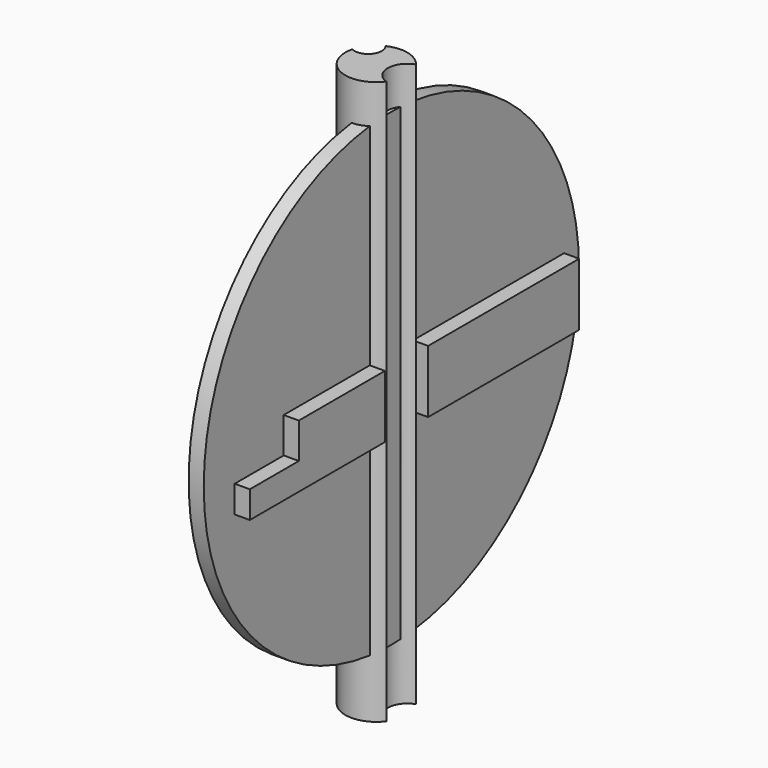
from build123d import *

# Parameters (mm, degrees)
F1_DEPTH  = 34.29
F2_DEPTH  = 36.068
F3_DEPTH  = 89.916
F4_DEPTH  = 297.18
F5_DEPTH  = 490.22
F7_DEPTH  = 25.4
F8_DEPTH  = 25.4
F9_R      = 267.1036956646
F10_DEPTH = 25.4
F11_R     = 394.725466742
F12_DEPTH = 25.4


with BuildPart() as f1:
    # F0 (on Top) → F1 (new body)
    with BuildSketch(Plane.XY):
        with BuildLine():
            ThreePointArc((-22.0894133395, 47.1940784517), (-22.5272575475, 18.5898560115), (-50.5285451852, 12.7314313437))
            ThreePointArc((-50.5285451852, 12.7314313437), (-22.4090369372, -47.0431534459), (41.7246328393, -31.2134303949))
            ThreePointArc((41.7246328393, -31.2134303949), (19.2126905803, 0), (41.7246328393, 31.2134303949))
            ThreePointArc((41.7246328393, 31.2134303949), (12.6582281257, 50.5469334709), (-22.0894133395, 47.1940784517))
        make_face()
    extrude(amount=F1_DEPTH)

    # F2 (add): a face of the model
    f2_faces = [f1.faces().sort_by_distance(p)[0] for p in [
        (-4.6967293791, -3.1263412286, 34.29),
    ]]
    extrude(f2_faces, amount=F2_DEPTH)

    # F3 (add): a face of the model
    f3_faces = [f1.faces().sort_by_distance(p)[0] for p in [
        (-4.6967293791, -3.1263412286, 70.358),
    ]]
    extrude(f3_faces, amount=F3_DEPTH)

    # F4 (add): a face of the model
    f4_faces = [f1.faces().sort_by_distance(p)[0] for p in [
        (-4.6967293791, -3.1263412286, 160.274),
    ]]
    extrude(f4_faces, amount=F4_DEPTH)

    # F5 (add): a face of the model
    f5_faces = [f1.faces().sort_by_distance(p)[0] for p in [
        (-4.6967293791, -3.1263412286, 0),
    ]]
    extrude(f5_faces, amount=F5_DEPTH)

    # F6 (on Right) → F7 (join)
    with BuildSketch(Plane.YZ):
        Polygon((-226.492524147, -22.241378203), (-329.5620381832, -22.241378203), (-329.5620381832, -67.7837207913), (363.1609678268, -67.7837207913), (363.1609678268, 37.6827605069), (-226.492524147, 37.6827605069), align=None)
    extrude(amount=F7_DEPTH)

    # F8 (add): faces of the model
    f8_faces = [f1.faces().sort_by_distance(p)[0] for p in [
        (25.4, -164.0280914182, -20.9640918351),
        (25.4, 204.3294576408, -15.0504801422),
    ]]
    extrude(f8_faces, amount=F8_DEPTH)

    # F9 (on Right) → F10 (join)
    with BuildSketch(Plane.YZ):
        Circle(F9_R)
    extrude(amount=F10_DEPTH)

    # F11 (on Right) → F12 (join)
    with BuildSketch(Plane.YZ):
        Circle(F11_R)
    extrude(amount=F12_DEPTH)


solid = f1.part
